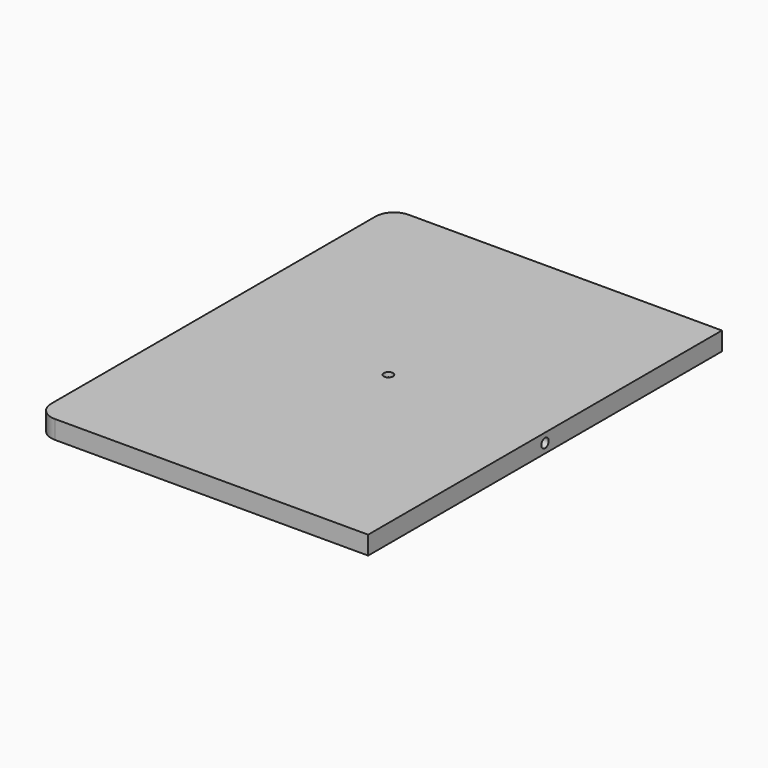
from build123d import *

# Parameters (mm, degrees)
F1_DEPTH = 25.4
F2_R     = 6.35
F3_DEPTH = 25.4
F4_R     = 6.35
F5_DEPTH = 6.35


with BuildPart() as f1:
    # F0 (on Top) → F1 (new body)
    with BuildSketch(Plane.XY):
        with BuildLine():
            Line((255.167366, -305.507209), (255.167366, 304.092791))
            Line((255.167366, 304.092791), (-176.632634, 304.092791))
            ThreePointArc((-176.632634, 304.092791), (-194.593147, 296.653303), (-202.032634, 278.692791))
            Line((-202.032634, 278.692791), (-202.032634, -280.107209))
            ThreePointArc((-202.032634, -280.107209), (-194.593147, -298.067721), (-176.632634, -305.507209))
            Line((-176.632634, -305.507209), (255.167366, -305.507209))
        make_face()
    extrude(amount=F1_DEPTH)

    # F2 (on face) → F3 (cut)
    with BuildSketch(Plane.YZ.offset(255.167366)):
        with Locations((-0.707209, 12.7)):
            Circle(F2_R)
    extrude(amount=-F3_DEPTH, mode=Mode.SUBTRACT)

    # F4 (on face) → F5 (cut)
    with BuildSketch(Plane.XY.offset(25.4)):
        with Locations((39.267366, -0.707209)):
            Circle(F4_R)
    extrude(amount=-F5_DEPTH, mode=Mode.SUBTRACT)


solid = f1.part
